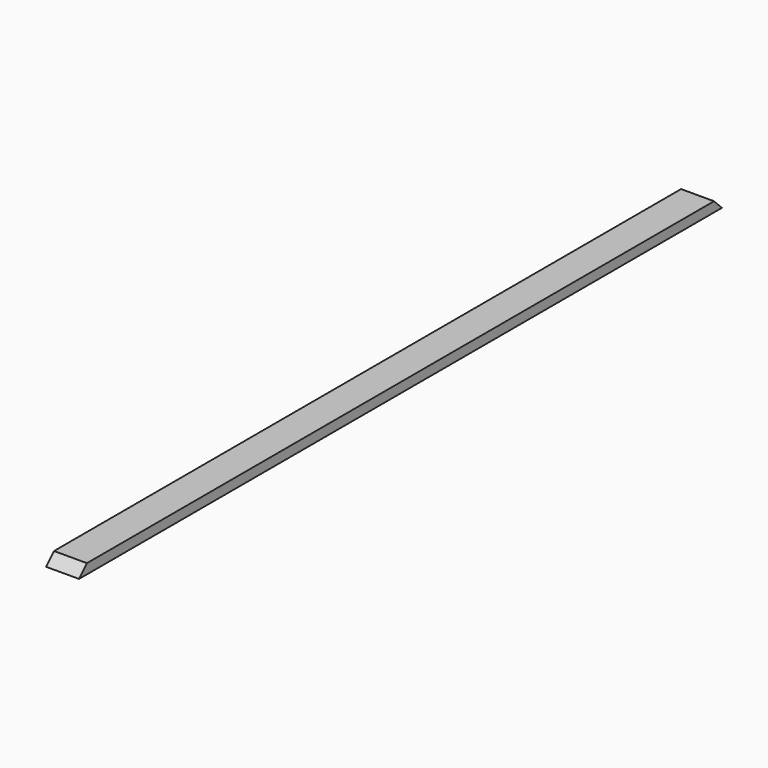
from build123d import *

# Parameters (mm, degrees)
F0_W     = 63.5
F0_H     = 38.1
F1_DEPTH = 1549.4
F3_DEPTH = 76.2
F4_W     = 63.5
F4_H     = 19.05
F5_DEPTH = 1549.401


with BuildPart() as f1:
    # F0 (on Front) → F1 (new body)
    with BuildSketch(Plane.XZ):
        with Locations((5.109261, 4.715717)):
            Rectangle(F0_W, F0_H)
    extrude(amount=F1_DEPTH)

    # F2 (on face) → F3 (cut)
    with BuildSketch(Plane.YZ.offset(36.859261)):
        Polygon((-1549.4, 23.765717), (-1549.4, -14.334283), (-1511.3, 23.765717), align=None)
        Polygon((-38.1, 23.765717), (0, -14.334283), (0, 23.765717), align=None)
    extrude(amount=-F3_DEPTH, mode=Mode.SUBTRACT)

    # F4 (on Front) → F5 (cut, through all)
    with BuildSketch(Plane.XZ):
        with Locations((5.109261, 14.240717)):
            Rectangle(F4_W, F4_H)
    extrude(amount=F5_DEPTH, mode=Mode.SUBTRACT)


solid = f1.part
